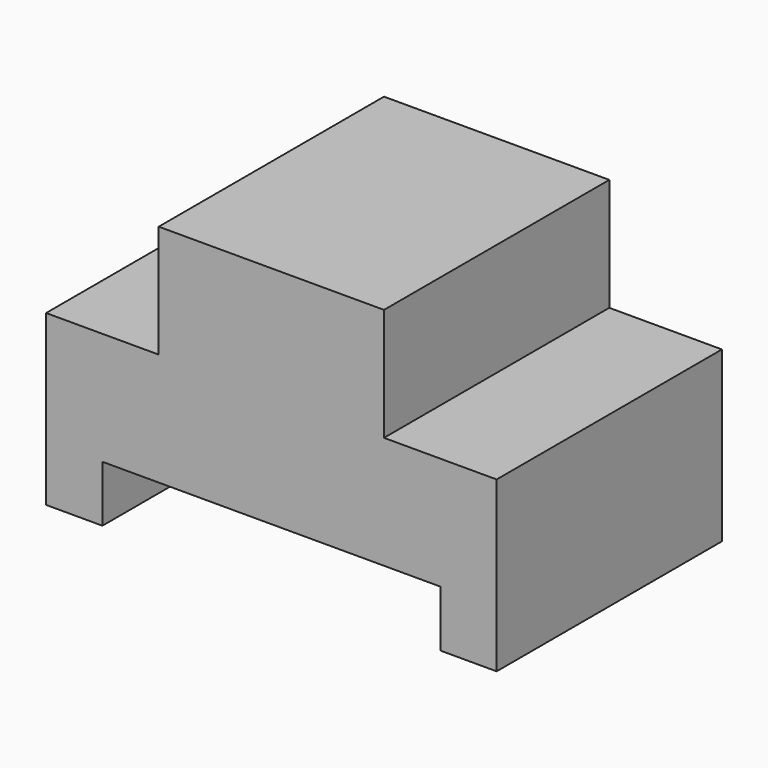
from build123d import *

# Parameters (mm, degrees)
F0_W     = 31.75
F0_H     = 31.75
F1_DEPTH = 50.8
F2_W     = 12.7
F2_H     = 12.7
F2_W_2   = 38.1
F2_H_2   = 6.35
F3_DEPTH = 31.751


with BuildPart() as f1:
    # F0 (on Right) → F1 (new body)
    with BuildSketch(Plane.YZ):
        with Locations((15.875, 15.875)):
            Rectangle(F0_W, F0_H)
    extrude(amount=F1_DEPTH)

    # F2 (on face) → F3 (cut, through all)
    with BuildSketch(Plane.XZ):
        with Locations((6.35, 25.4)):
            Rectangle(F2_W, F2_H)
        with Locations((44.45, 25.4)):
            Rectangle(F2_W, F2_H)
        with Locations((25.4, 3.175)):
            Rectangle(F2_W_2, F2_H_2)
    extrude(amount=-F3_DEPTH, mode=Mode.SUBTRACT)


solid = f1.part
